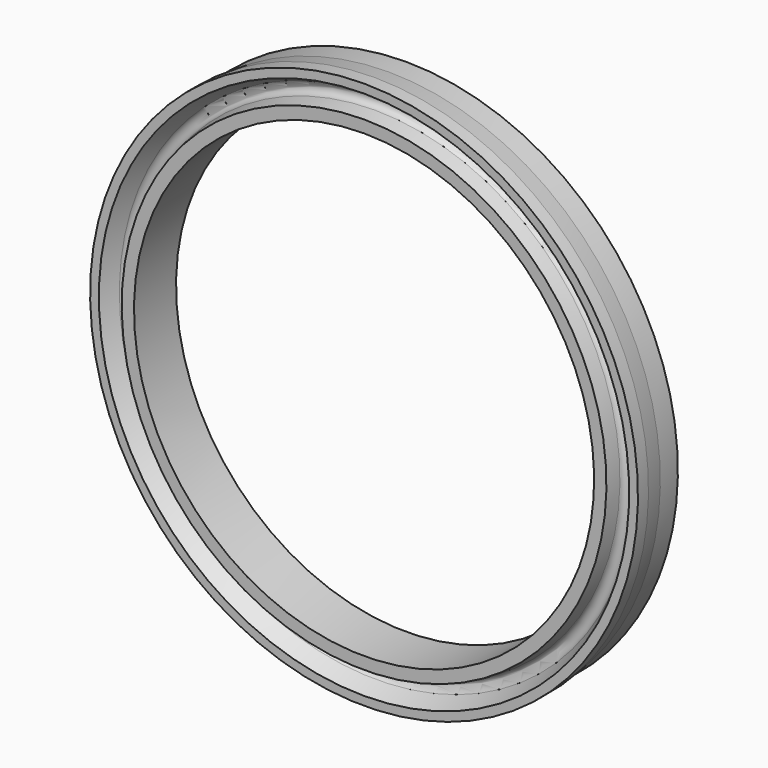
from build123d import *


with BuildPart() as f2:
    # F0 (on Right) → F2 (revolve)
    with BuildSketch(Plane.YZ):
        with BuildLine():
            Line((0, 55.3), (0, 52.5))
            Line((0, 52.5), (12, 52.5))
            Line((12, 52.5), (12, 62))
            Line((12, 62), (7, 62))
            Line((7, 62), (3, 62.5))
            Line((3, 62.5), (0, 62.5))
            Line((0, 62.5), (0, 60.5))
            Line((0, 60.5), (3.56316, 58.682339))
            ThreePointArc((3.56316, 58.682339), (4.365514, 57.127496), (3.148797, 55.870155))
            Line((3.148797, 55.870155), (0, 55.3))
        make_face()
    revolve(axis=Axis((0, 2.624998, 0), (0, 1, 0)))


solid = f2.part
